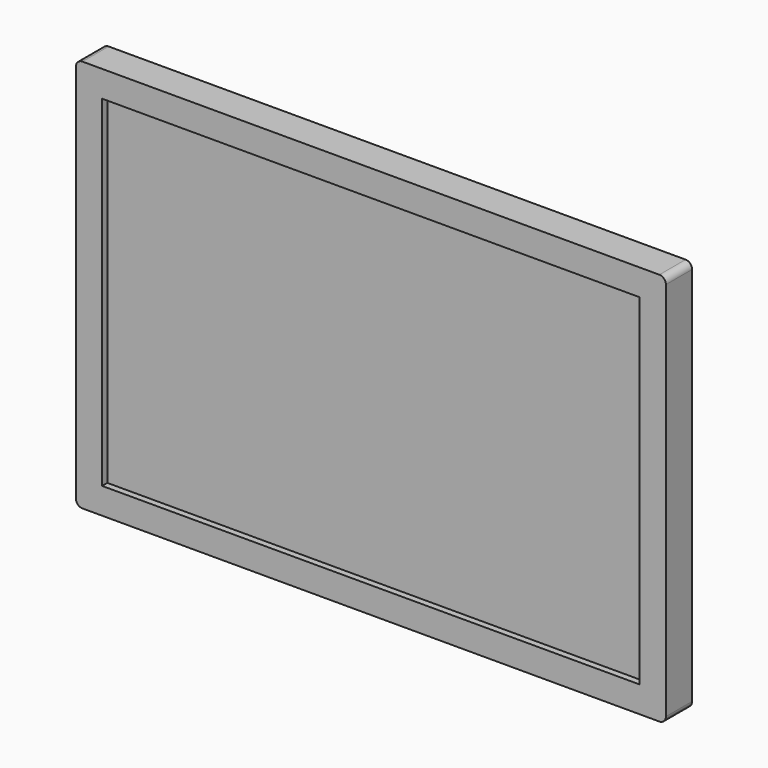
from build123d import *

# Parameters (mm, degrees)
F0_W     = 410
F0_H     = 260
F1_DEPTH = 20
F0_W_2   = 450
F0_H_2   = 300
F2_DEPTH = 25
F3_R     = 5
F4_W     = 200
F4_H     = 100
F5_DEPTH = 15
F6_R     = 5


with BuildPart() as f1:
    # F0 (on Front) → F1 (new body)
    with BuildSketch(Plane.XZ):
        with Locations((0, 150)):
            Rectangle(F0_W, F0_H)
    extrude(amount=F1_DEPTH)

    # F4 (on face) → F5 (join)
    with BuildSketch(Plane(origin=(0, 0, 0), x_dir=(-1, 0, 0), z_dir=(0, 1, 0))):
        with Locations((-4e-06, 200)):
            Rectangle(F4_W, F4_H)
    extrude(amount=F5_DEPTH)

    # F6
    f6_edges = [f1.edges().sort_by_distance(p)[0] for p in [
        (-99.999996, 15, 200),
        (4e-06, 15, 250),
        (100.000004, 15, 200),
        (4e-06, 15, 150),
    ]]
    fillet(f6_edges, radius=F6_R)


with BuildPart() as f2:
    # F0 (on Front) → F2 (new body)
    with BuildSketch(Plane.XZ):
        with Locations((0, 150)):
            Rectangle(F0_W_2, F0_H_2)
        with Locations((0, 150)):
            Rectangle(F0_W, F0_H, mode=Mode.SUBTRACT)
    extrude(amount=F2_DEPTH)

    # F3
    f3_edges = [f2.edges().sort_by_distance(p)[0] for p in [
        (-225, -12.5, 300),
        (225, -12.5, 300),
        (225, -12.5, 0),
        (-225, -12.5, 0),
    ]]
    fillet(f3_edges, radius=F3_R)


solid = Compound([f1.part, f2.part])
